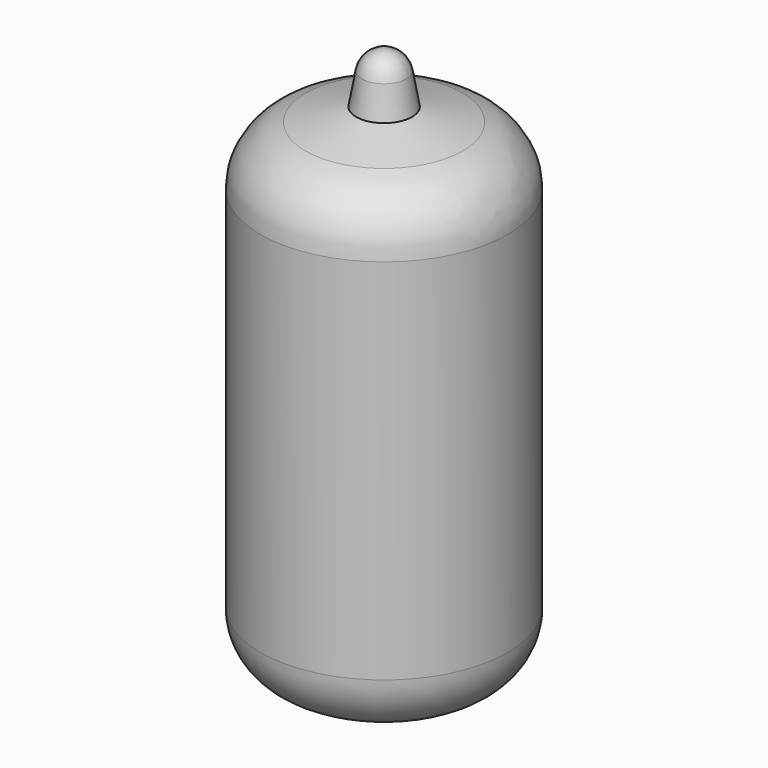
from build123d import *

# Parameters (mm, degrees)
F3_R = 5.08


with BuildPart() as f2:
    # F1 (on Front) → F2 (revolve)
    with BuildSketch(Plane.XZ):
        with BuildLine():
            Line((0, 0), (10.31875, 0))
            Line((10.31875, 0), (10.31875, 39.6875))
            Line((10.31875, 39.6875), (2.329721, 41.828154))
            Line((2.329721, 41.828154), (1.863166, 44.474118))
            ThreePointArc((1.863166, 44.474118), (1.216096, 45.594877), (0, 46.0375))
            Line((0, 46.0375), (0, 0))
        make_face()
    revolve(axis=Axis((0, 0, 23.01875), (0, 0, -1)))

    # F3
    f3_edges = [f2.edges().sort_by_distance(p)[0] for p in [
        (-10.31875, 0, 39.6875),
        (-10.31875, 0, 0),
    ]]
    fillet(f3_edges, radius=F3_R)


solid = f2.part
